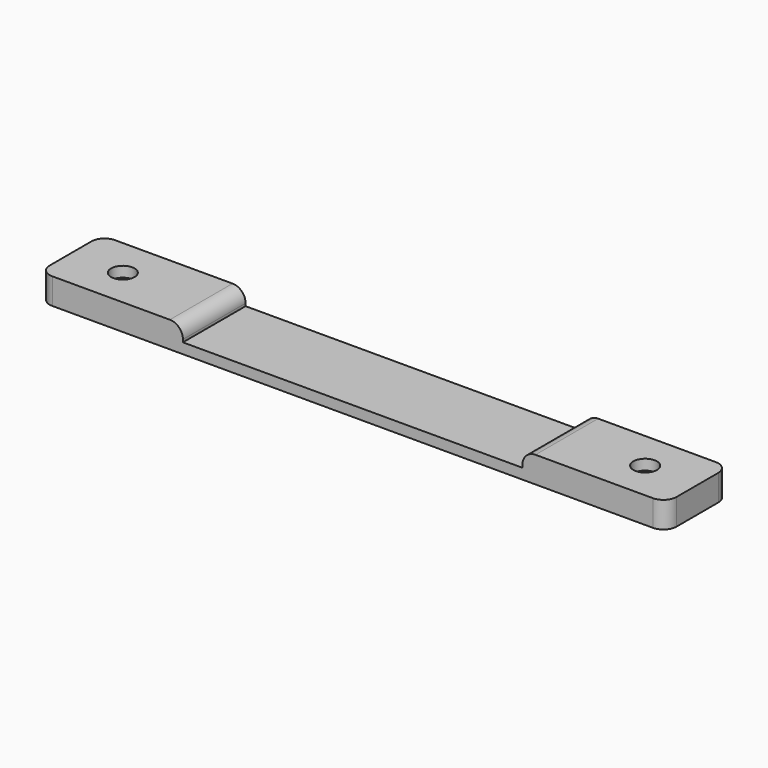
from build123d import *

# Parameters (mm, degrees)
F0_W     = 120
F0_H     = 15
F1_DEPTH = 2
F2_W     = 27.5
F2_H     = 15
F3_DEPTH = 3
F4_R     = 2.25
F5_DEPTH = 5
F6_R     = 2.5
F4_R_2   = 3.5
F7_DEPTH = 3


with BuildPart() as f1:
    # F0 (on Top) → F1 (new body)
    with BuildSketch(Plane.XY):
        Rectangle(F0_W, F0_H)
    extrude(amount=F1_DEPTH)

    # F2 (on face) → F3 (join)
    with BuildSketch(Plane.XY.offset(2)):
        with Locations((-46.25, 0)):
            Rectangle(F2_W, F2_H)
        with Locations((46.25, 0)):
            Rectangle(F2_W, F2_H)
    extrude(amount=F3_DEPTH)

    # F4 (on face) → F5 (cut)
    with BuildSketch(Plane(origin=(0, 0, 0), x_dir=(1, 0, 0), z_dir=(0, 0, -1))):
        with Locations((-50, 0)):
            Circle(F4_R)
        with Locations((50, 0)):
            Circle(F4_R)
    extrude(amount=-F5_DEPTH, mode=Mode.SUBTRACT)

    # F6
    f6_edges = [f1.edges().sort_by_distance(p)[0] for p in [
        (60, 7.5, 2.5),
        (60, -7.5, 2.5),
        (-60, 7.5, 2.5),
        (-60, -7.5, 2.5),
        (32.5, 0, 5),
        (-32.5, 0, 5),
    ]]
    fillet(f6_edges, radius=F6_R)

    # F4 (on face) → F7 (cut)
    with BuildSketch(Plane(origin=(0, 0, 0), x_dir=(1, 0, 0), z_dir=(0, 0, -1))):
        with Locations((-50, 0)):
            Circle(F4_R_2)
        with Locations((-50, 0)):
            Circle(F4_R, mode=Mode.SUBTRACT)
        with Locations((50, 0)):
            Circle(F4_R_2)
        with Locations((50, 0)):
            Circle(F4_R, mode=Mode.SUBTRACT)
    extrude(amount=-F7_DEPTH, mode=Mode.SUBTRACT)


solid = f1.part
